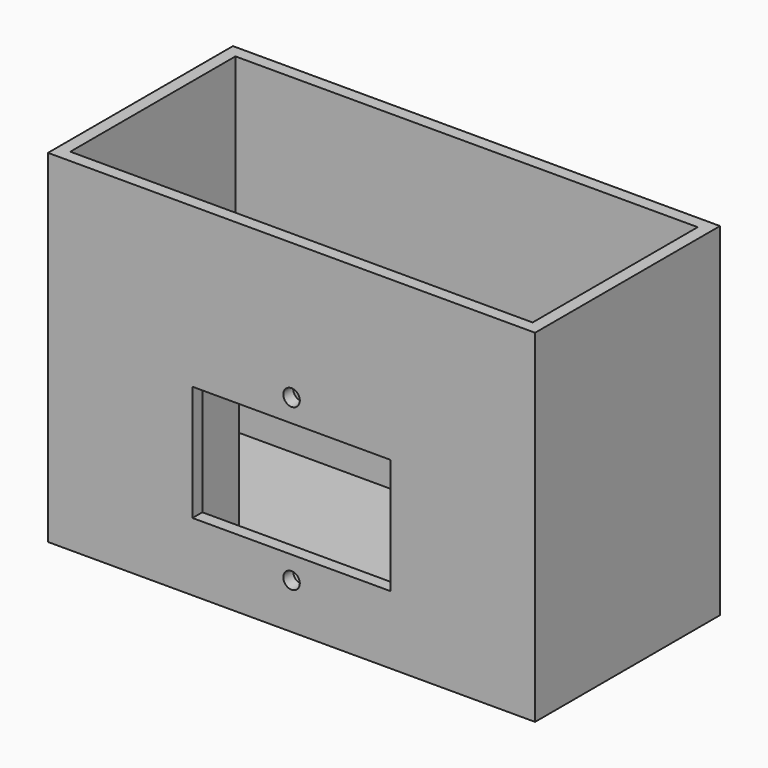
from build123d import *

# Parameters (mm, degrees)
F0_W     = 112
F0_H     = 50
F1_DEPTH = 3
F0_W_2   = 118
F0_H_2   = 56
F2_DEPTH = 83
F3_W     = 48
F3_H     = 28
F3_R     = 2.5
F4_DEPTH = 3
F3_R_2   = 2
F5_DEPTH = 3
F6_DEPTH = 76.6
F7_W     = 24.463284
F7_H     = 15
F8_DEPTH = 53.2


with BuildPart() as f1:
    # F0 (on Top) → F1 (new body)
    with BuildSketch(Plane.XY):
        Rectangle(F0_W, F0_H)
    extrude(amount=F1_DEPTH)

    # F0 (on Top) → F2 (join)
    with BuildSketch(Plane.XY):
        Rectangle(F0_W_2, F0_H_2)
        Rectangle(F0_W, F0_H, mode=Mode.SUBTRACT)
    extrude(amount=F2_DEPTH)

    # F3 (on face) → F4 (cut)
    with BuildSketch(Plane.XZ.offset(28)):
        with Locations((0, 30.5)):
            Rectangle(F3_W, F3_H)
        with Locations((0, 30.5)):
            Circle(F3_R, mode=Mode.SUBTRACT)
        with Locations((0, 30.5)):
            Circle(F3_R)
    extrude(amount=-F4_DEPTH, mode=Mode.SUBTRACT)

    # F3 (on face) → F5 (cut)
    with BuildSketch(Plane.XZ.offset(28)):
        with Locations((0, 50)):
            Circle(F3_R_2)
        with Locations((0, 11)):
            Circle(F3_R_2)
    extrude(amount=-F5_DEPTH, mode=Mode.SUBTRACT)

    # F3 (on face) → F6 (cut)
    with BuildSketch(Plane.XZ.offset(28)):
        with Locations((0, 30.5)):
            Circle(F3_R)
    extrude(amount=-F6_DEPTH, mode=Mode.SUBTRACT)

    # F7 (on face) → F8 (join)
    with BuildSketch(Plane.XY.offset(3)):
        with Locations((-39.3574, -17.5)):
            Rectangle(F7_W, F7_H)
        with Locations((39.3574, -17.5)):
            Rectangle(F7_W, F7_H)
    extrude(amount=F8_DEPTH)


solid = f1.part
